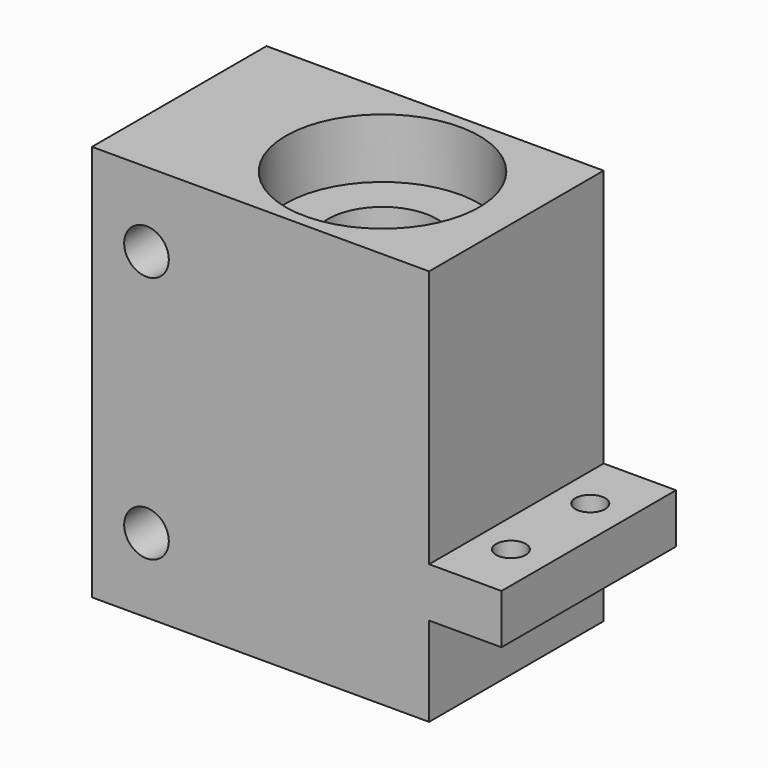
from build123d import *

# Parameters (mm, degrees)
PAD_DEPTH       = 11
SKETCH001_R     = 9.75
POCKET_DEPTH    = 6
SKETCH002_R     = 5.5
POCKET001_DEPTH = 40
SKETCH003_R     = 9.75
POCKET002_DEPTH = 6
SKETCH004_R     = 2.25
POCKET003_DEPTH = 25
SKETCH005_R     = 1.5
POCKET004_DEPTH = 5


with BuildPart() as part:
    # Sketch → Pad (new body, symmetric)
    with BuildSketch(Plane.XZ):
        Polygon((-20.5, 40), (-20.5, 0), (13.5, 0), (13.5, 9), (20.8, 9), (20.8, 14), (13.5, 14), (13.5, 40), align=None)
    extrude(amount=PAD_DEPTH, both=True)

    # Sketch001 (on Face2 of Pad) → Pocket (cut)
    with BuildSketch(Plane(origin=(0, 0, 0), x_dir=(1, 0, 0), z_dir=(0, 0, -1))):
        Circle(SKETCH001_R)
    extrude(amount=-POCKET_DEPTH, mode=Mode.SUBTRACT)

    # Sketch002 (on Face12 of Pocket) → Pocket001 (cut)
    with BuildSketch(Plane(origin=(0, 0, 6), x_dir=(1, 0, 0), z_dir=(0, 0, -1))):
        Circle(SKETCH002_R)
    extrude(amount=-POCKET001_DEPTH, mode=Mode.SUBTRACT)

    # Sketch003 (on Face2 of Pocket001) → Pocket002 (cut)
    with BuildSketch(Plane(origin=(0, 0, 40), x_dir=(-1, 0, 0), z_dir=(0, 0, 1))):
        Circle(SKETCH003_R)
    extrude(amount=-POCKET002_DEPTH, mode=Mode.SUBTRACT)

    # Sketch004 (on Face5 of Pocket002) → Pocket003 (cut)
    with BuildSketch(Plane.XZ.offset(11)):
        with Locations((-15, 32.5)):
            Circle(SKETCH004_R)
        with Locations((-15, 7.5)):
            Circle(SKETCH004_R)
    extrude(amount=-POCKET003_DEPTH, mode=Mode.SUBTRACT)

    # Sketch005 (on Face11 of Pocket003) → Pocket004 (cut)
    with BuildSketch(Plane(origin=(0, 0, 9), x_dir=(1, 0, 0), z_dir=(0, 0, -1))):
        with Locations((16.95, 5)):
            Circle(SKETCH005_R)
        with Locations((16.95, -5)):
            Circle(SKETCH005_R)
    extrude(amount=-POCKET004_DEPTH, mode=Mode.SUBTRACT)


solid = part.part
